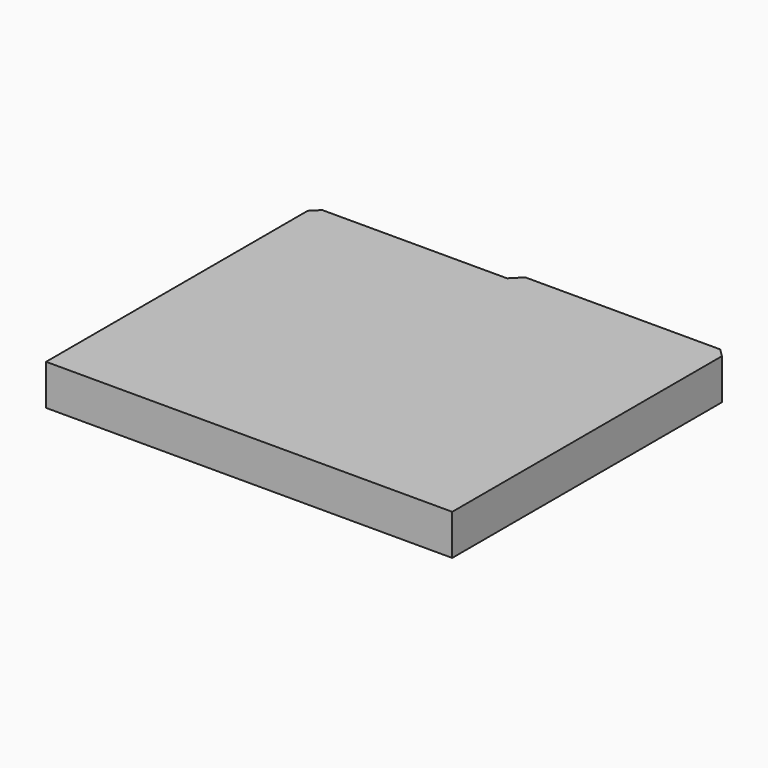
from build123d import *

# Parameters (mm, degrees)
BOX015_W           = 11
BOX015_H           = 17
BOX015_DEPTH       = 2
CHAMFER006010_SIZE = 1
CHAMFER006011_SIZE = 0.4
BOX014_W           = 10
BOX014_H           = 16.5
BOX014_DEPTH       = 2
CHAMFER006009_SIZE = 0.4


with BuildPart() as chamfer006011:
    # Box015 → Box015 (new body)
    with BuildSketch(Plane(origin=(9, -7, 10), x_dir=(1, 0, 0), z_dir=(0, 0, 1))):
        with Locations((5.5, 8.5)):
            Rectangle(BOX015_W, BOX015_H)
    extrude(amount=BOX015_DEPTH)

    # Chamfer006010
    chamfer006010_edges = [chamfer006011.edges().sort_by_distance(p)[0] for p in [
        (9, 10, 11),
    ]]
    chamfer(chamfer006010_edges, length=CHAMFER006010_SIZE)

    # Chamfer006011
    chamfer006011_edges = [chamfer006011.edges().sort_by_distance(p)[0] for p in [
        (20, 10, 11),
    ]]
    chamfer(chamfer006011_edges, length=CHAMFER006011_SIZE)


with BuildPart() as fusion008018:
    # Box014 → Box014 (new body)
    with BuildSketch(Plane(origin=(0, -7, 10), x_dir=(1, 0, 0), z_dir=(0, 0, 1))):
        with Locations((5, 8.25)):
            Rectangle(BOX014_W, BOX014_H)
    extrude(amount=BOX014_DEPTH)

    # Chamfer006009
    chamfer006009_edges = [fusion008018.edges().sort_by_distance(p)[0] for p in [
        (0, 9.5, 11),
    ]]
    chamfer(chamfer006009_edges, length=CHAMFER006009_SIZE)

    # Fusion008018: union Chamfer006011
    add(chamfer006011.part)


solid = fusion008018.part
